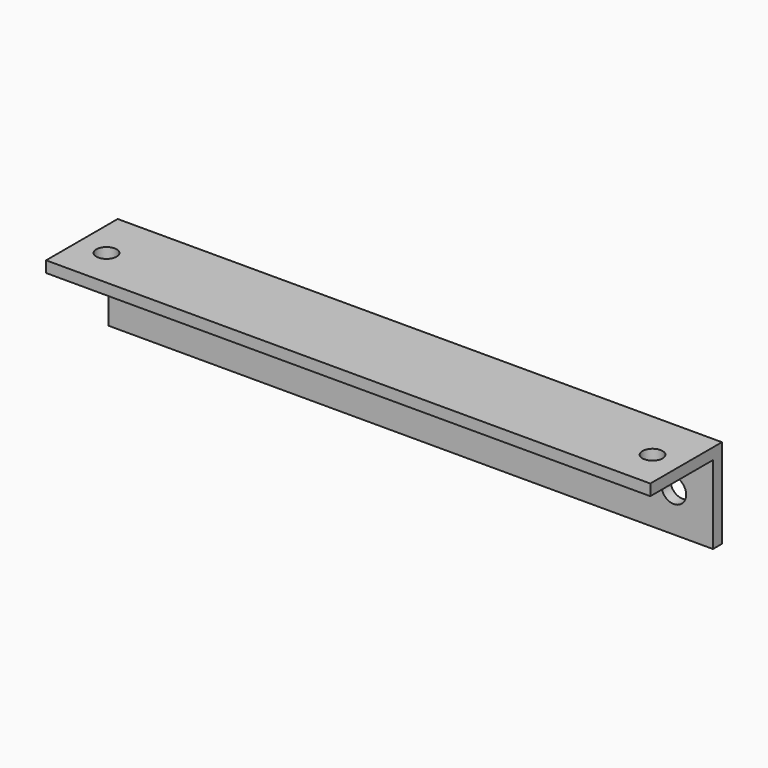
from build123d import *

# Parameters (mm, degrees)
F0_W     = 540
F0_H     = 80
F1_DEPTH = 10
F2_W     = 540
F2_H     = 10
F3_DEPTH = 70
F4_R     = 11
F5_DEPTH = 80.001
F6_R     = 9
F7_DEPTH = 80.001


with BuildPart() as f1:
    # F0 (on Front) → F1 (new body)
    with BuildSketch(Plane.XZ):
        with Locations((270, 40)):
            Rectangle(F0_W, F0_H)
    extrude(amount=F1_DEPTH)

    # F2 (on face) → F3 (join)
    with BuildSketch(Plane.XZ.offset(10)):
        with Locations((270, 75)):
            Rectangle(F2_W, F2_H)
    extrude(amount=F3_DEPTH)

    # F4 (on face) → F5 (cut, through all)
    with BuildSketch(Plane(origin=(0, 0, 0), x_dir=(-1, 0, 0), z_dir=(0, 1, 0))):
        with Locations((-505, 35)):
            Circle(F4_R)
        with Locations((-387.5, 35)):
            Circle(F4_R)
        with Locations((-270, 35)):
            Circle(F4_R)
        with Locations((-152.5, 35)):
            Circle(F4_R)
        with Locations((-35, 35)):
            Circle(F4_R)
    extrude(amount=-F5_DEPTH, mode=Mode.SUBTRACT)

    # F6 (on face) → F7 (cut, through all)
    with BuildSketch(Plane.XY.offset(80)):
        with Locations((26, -45)):
            Circle(F6_R)
        with Locations((514, -45)):
            Circle(F6_R)
    extrude(amount=-F7_DEPTH, mode=Mode.SUBTRACT)


solid = f1.part
